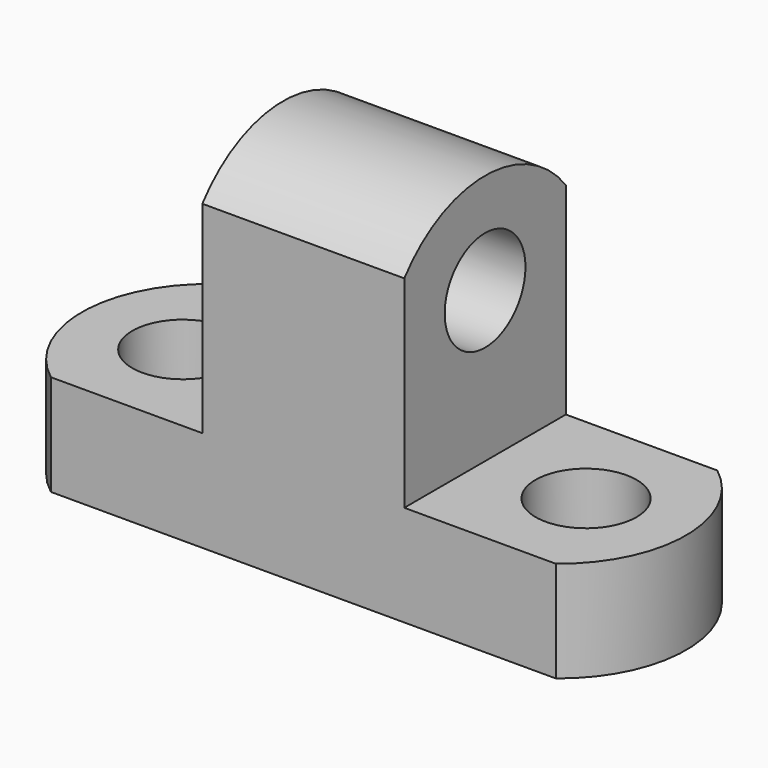
from build123d import *

# Parameters (mm, degrees)
F0_W      = 76.2
F0_H      = 25.4
F1_DEPTH  = 12.7
F3_DEPTH  = 25.4
F4_W      = 25.4
F4_H      = 25.4
F5_DEPTH  = 31.75
F7_DEPTH  = 25.4
F8_R      = 6.35
F9_DEPTH  = 12.7
F10_R     = 6.35
F11_DEPTH = 25.4


with BuildPart() as f1:
    # F0 (on Top) → F1 (new body)
    with BuildSketch(Plane.XY):
        with Locations((38.1, 12.7)):
            Rectangle(F0_W, F0_H)
    extrude(amount=F1_DEPTH)

    # F2 (on face) → F3 (cut)
    with BuildSketch(Plane.XY.offset(12.7)):
        with BuildLine():
            ThreePointArc((6.35, 0), (0.081424, 12.7), (6.35, 25.4))
            Line((6.35, 25.4), (0, 25.4))
            Line((0, 25.4), (0, 0))
            Line((0, 0), (6.35, 0))
        make_face()
        with BuildLine():
            Line((76.2, 25.4), (69.85, 25.4))
            ThreePointArc((69.85, 25.4), (76.079165, 12.7), (69.85, 0))
            Line((69.85, 0), (76.2, 0))
            Line((76.2, 0), (76.2, 25.4))
        make_face()
    extrude(amount=-F3_DEPTH, mode=Mode.SUBTRACT)

    # F4 (on face) → F5 (join)
    with BuildSketch(Plane.XY.offset(12.7)):
        with Locations((38.1, 12.7)):
            Rectangle(F4_W, F4_H)
    extrude(amount=F5_DEPTH)

    # F6 (on face) → F7 (cut)
    with BuildSketch(Plane.YZ.offset(50.8)):
        with BuildLine():
            Line((0, 44.45), (0, 38.1))
            ThreePointArc((0, 38.1), (12.7, 44.313005), (25.4, 38.1))
            Line((25.4, 38.1), (25.4, 44.45))
            Line((25.4, 44.45), (0, 44.45))
        make_face()
    extrude(amount=-F7_DEPTH, mode=Mode.SUBTRACT)

    # F8 (on face) → F9 (cut)
    with BuildSketch(Plane.XY.offset(12.7)):
        with Locations((12.781424, 12.7)):
            Circle(F8_R)
        with Locations((63.5, 12.7)):
            Circle(F8_R)
    extrude(amount=-F9_DEPTH, mode=Mode.SUBTRACT)

    # F10 (on face) → F11 (cut)
    with BuildSketch(Plane.YZ.offset(50.8)):
        with Locations((12.7, 31.613005)):
            Circle(F10_R)
    extrude(amount=-F11_DEPTH, mode=Mode.SUBTRACT)


solid = f1.part
